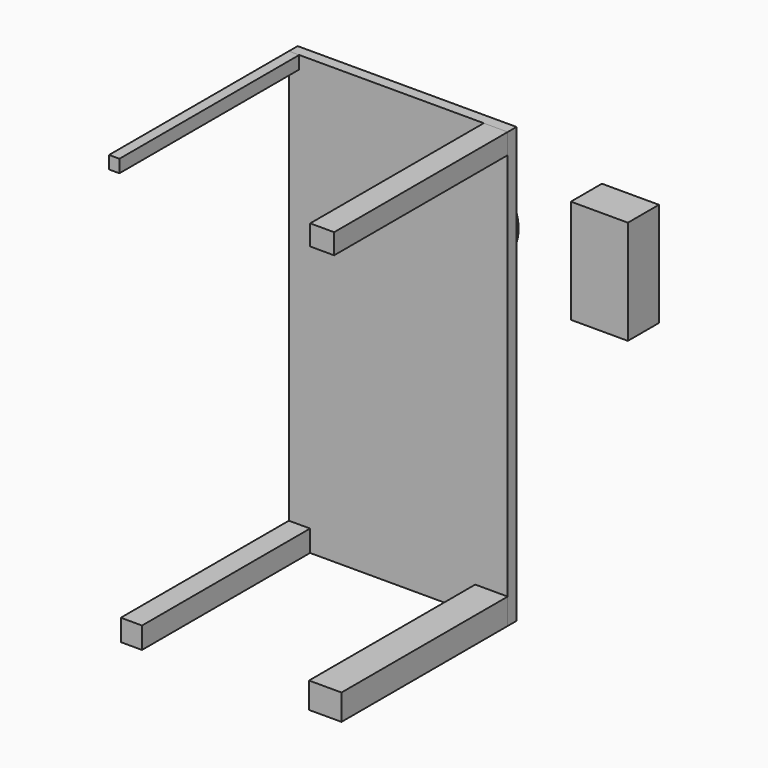
from build123d import *

# Parameters (mm, degrees)
F0_W      = 143.256173
F0_H      = 284.630939
F1_DEPTH  = 7.195266
F2_W      = 13.886297
F2_H      = 14.0758
F3_DEPTH  = 137.505585
F4_W      = 21.261238
F4_H      = 16.944416
F5_DEPTH  = 136.010349
F6_W      = 15.684948
F6_H      = 13.330042
F7_DEPTH  = 142.017178
F8_W      = 6.778106
F8_H      = 8.382767
F9_DEPTH  = 147.101071
F10_R     = 27.097865
F11_DEPTH = 2.913537
F13_W     = 37.333131
F13_H     = 68.113133
F15_DEPTH = 25.4


with BuildPart() as f1:
    # F0 (on Front) → F1 (new body)
    with BuildSketch(Plane.XZ):
        with Locations((71.628086, 2.155922)):
            Rectangle(F0_W, F0_H)
    extrude(amount=F1_DEPTH)

    # F2 (on face) → F3 (join)
    with BuildSketch(Plane.XZ.offset(7.195266)):
        with Locations((6.943148, -133.121647)):
            Rectangle(F2_W, F2_H)
    extrude(amount=F3_DEPTH)

    # F4 (on face) → F5 (join)
    with BuildSketch(Plane.XZ.offset(7.195266)):
        with Locations((132.625554, -131.687339)):
            Rectangle(F4_W, F4_H)
    extrude(amount=F5_DEPTH)

    # F6 (on face) → F7 (join)
    with BuildSketch(Plane.XZ.offset(7.195266)):
        with Locations((135.413699, 137.806371)):
            Rectangle(F6_W, F6_H)
    extrude(amount=F7_DEPTH)

    # F8 (on face) → F9 (join)
    with BuildSketch(Plane.XZ.offset(7.195266)):
        with Locations((3.389053, 140.280009)):
            Rectangle(F8_W, F8_H)
    extrude(amount=F9_DEPTH)

    # F10 (on face) → F11 (join)
    with BuildSketch(Plane(origin=(0, 0, 0), x_dir=(-1, 0, 0), z_dir=(0, 1, 0))):
        with Locations((-115.237094, 84.444135)):
            Circle(F10_R)
    extrude(amount=F11_DEPTH)


with BuildPart() as f15:
    # F13 (on face) → F15 (new body)
    with BuildSketch(Plane(origin=(0, 0, 0), x_dir=(-1, 0, 0), z_dir=(0, 1, 0))):
        with Locations((-197.494238, 78.946836)):
            Rectangle(F13_W, F13_H)
    extrude(amount=F15_DEPTH)


solid = Compound([f1.part, f15.part])
